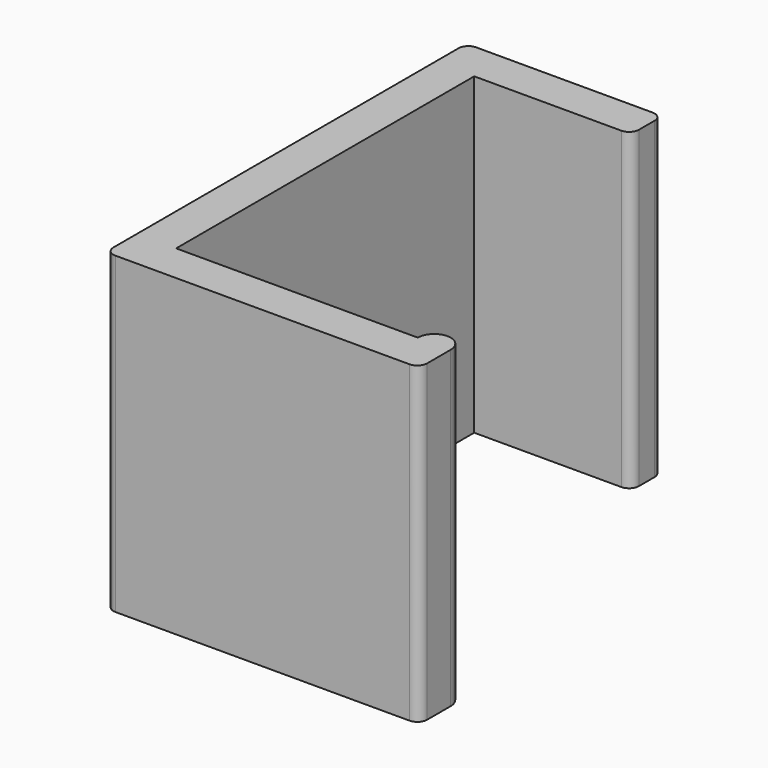
from build123d import *

# Parameters (mm, degrees)
F1_DEPTH = 25.4


with BuildPart() as f1:
    # F0 (on Top) → F1 (new body)
    with BuildSketch(Plane.XY):
        with BuildLine():
            Line((-2.661807, 0), (-22.225, 0))
            Line((-22.225, 0), (-22.225, 30.1625))
            Line((-22.225, 30.1625), (-10.31875, 30.1625))
            ThreePointArc((-10.31875, 30.1625), (-9.757484, 30.394984), (-9.525, 30.95625))
            Line((-9.525, 30.95625), (-9.525, 32.54375))
            ThreePointArc((-9.525, 32.54375), (-9.757484, 33.105016), (-10.31875, 33.3375))
            Line((-10.31875, 33.3375), (-24.60625, 33.3375))
            ThreePointArc((-24.60625, 33.3375), (-25.167516, 33.105016), (-25.4, 32.54375))
            Line((-25.4, 32.54375), (-25.4, -2.38125))
            ThreePointArc((-25.4, -2.38125), (-25.167516, -2.942516), (-24.60625, -3.175))
            Line((-24.60625, -3.175), (-0.79375, -3.175))
            ThreePointArc((-0.79375, -3.175), (-0.232484, -2.942516), (0, -2.38125))
            Line((0, -2.38125), (0, 0))
            ThreePointArc((0, 0), (-1.330903, 1.330903), (-2.661807, 0))
        make_face()
    extrude(amount=F1_DEPTH)


solid = f1.part
